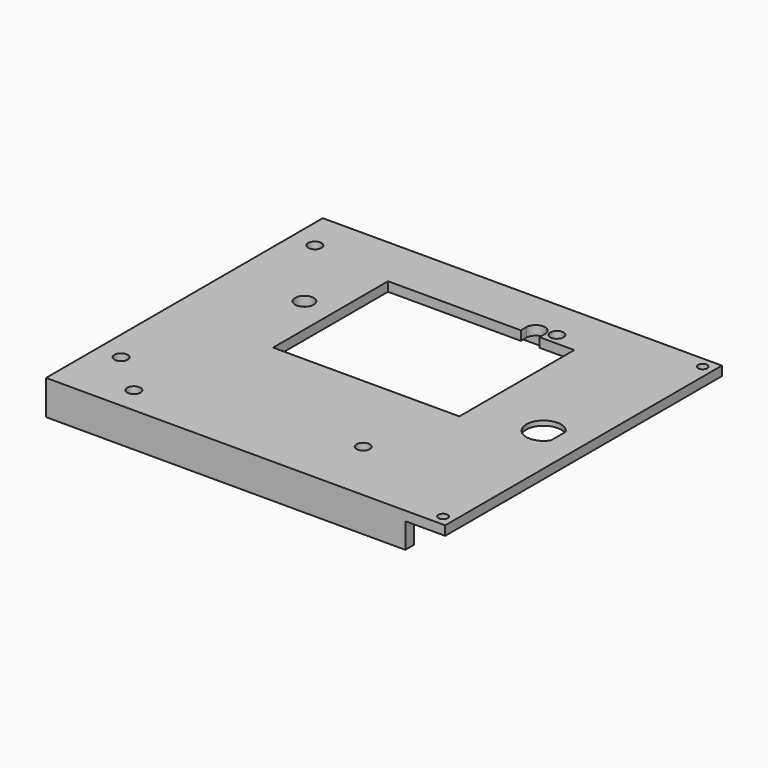
from build123d import *

# Parameters (mm, degrees)
COPYSKETCH010_W   = 150
COPYSKETCH010_H   = 130
COPYSKETCH010_R   = 2.5
COPYSKETCH010_R_2 = 3.5
COPYSKETCH010_R_3 = 1.75
PAD_DEPTH         = 3.5
PAD001_DEPTH      = 13
SKETCH001_R       = 1.75
POCKET_DEPTH      = 5
SKETCH002_R       = 1.15
POCKET001_DEPTH   = 2.5
SKETCH003_R       = 0.875
SKETCH003_R_2     = 0.75
POCKET002_DEPTH   = 2.5
SKETCH004_R       = 12
POCKET003_DEPTH   = 1.75


with BuildPart() as part:
    # CopySketch010 → Pad (new body)
    with BuildSketch(Plane(origin=(0, 0, 0), x_dir=(-1, 0, 0), z_dir=(0, 0, -1))):
        with Locations((-75, 0)):
            Rectangle(COPYSKETCH010_W, COPYSKETCH010_H)
        with Locations((-100, 50)):
            Circle(COPYSKETCH010_R, mode=Mode.SUBTRACT)
        with Locations((-100, -41)):
            Circle(COPYSKETCH010_R, mode=Mode.SUBTRACT)
        with Locations((-9, -41)):
            Circle(COPYSKETCH010_R, mode=Mode.SUBTRACT)
        with Locations((-9, 50)):
            Circle(COPYSKETCH010_R, mode=Mode.SUBTRACT)
        with Locations((-28.79, 20.377)):
            Circle(COPYSKETCH010_R_2, mode=Mode.SUBTRACT)
        with Locations((-146, 61)):
            Circle(COPYSKETCH010_R_3, mode=Mode.SUBTRACT)
        with Locations((-146, -61)):
            Circle(COPYSKETCH010_R_3, mode=Mode.SUBTRACT)
        with Locations((-25, -55)):
            Circle(COPYSKETCH010_R, mode=Mode.SUBTRACT)
        with BuildLine():
            Line((-40, -8.35), (-110, -8.35))
            Line((-110, -8.35), (-110, 45.65))
            Line((-110, 45.65), (-96.908, 45.65))
            Line((-96.908, 48.264), (-96.908, 45.65))
            ThreePointArc((-89.908002, 48.26), (-93.406, 51.763999), (-96.908, 48.264))
            Line((-89.908002, 48.26), (-89.908002, 45.65))
            Line((-89.908002, 45.65), (-40, 45.65))
            Line((-40, 45.65), (-40, -8.35))
        make_face(mode=Mode.SUBTRACT)
        with BuildLine():
            ThreePointArc((-140.5, -3.464102), (-128.5, 0), (-140.5, 3.464102))
            Line((-140.5, -3.464102), (-140.5, 3.464102))
        make_face(mode=Mode.SUBTRACT)
    extrude(amount=PAD_DEPTH)

    # Sketch (on Face23 of Pad) → Pad001 (join)
    with BuildSketch(Plane.XY):
        Polygon((135, 65), (135, 61), (4, 61), (4, -61), (135, -61), (135, -65), (0, -65), (0, 65), align=None)
    extrude(amount=-PAD001_DEPTH)

    # Sketch001 → Pocket (cut)
    with BuildSketch(Plane.YZ):
        with Locations((0, -8.5)):
            Circle(SKETCH001_R)
        with Locations((50, -8.5)):
            Circle(SKETCH001_R)
        with Locations((-50, -8.5)):
            Circle(SKETCH001_R)
    extrude(amount=POCKET_DEPTH, mode=Mode.SUBTRACT)

    # Sketch002 → Pocket001 (cut, symmetric)
    with BuildSketch(Plane.XZ.offset(60)):
        with Locations((52, -7)):
            Circle(SKETCH002_R)
    extrude(amount=POCKET001_DEPTH, both=True, mode=Mode.SUBTRACT)

    # Sketch003 → Pocket002 (cut, symmetric)
    with BuildSketch(Plane.XZ.offset(-65)):
        with Locations((25, -8)):
            Circle(SKETCH003_R)
        with Locations((125, -8)):
            Circle(SKETCH003_R)
        with Locations((95, -8)):
            Circle(SKETCH003_R_2)
        with Locations((55, -8)):
            Circle(SKETCH003_R_2)
    extrude(amount=POCKET002_DEPTH, both=True, mode=Mode.SUBTRACT)

    # Sketch004 → Pocket003 (cut)
    with BuildSketch(Plane.XY.offset(-3.5)):
        with Locations((135, 0)):
            Circle(SKETCH004_R)
    extrude(amount=POCKET003_DEPTH, mode=Mode.SUBTRACT)


solid = part.part
